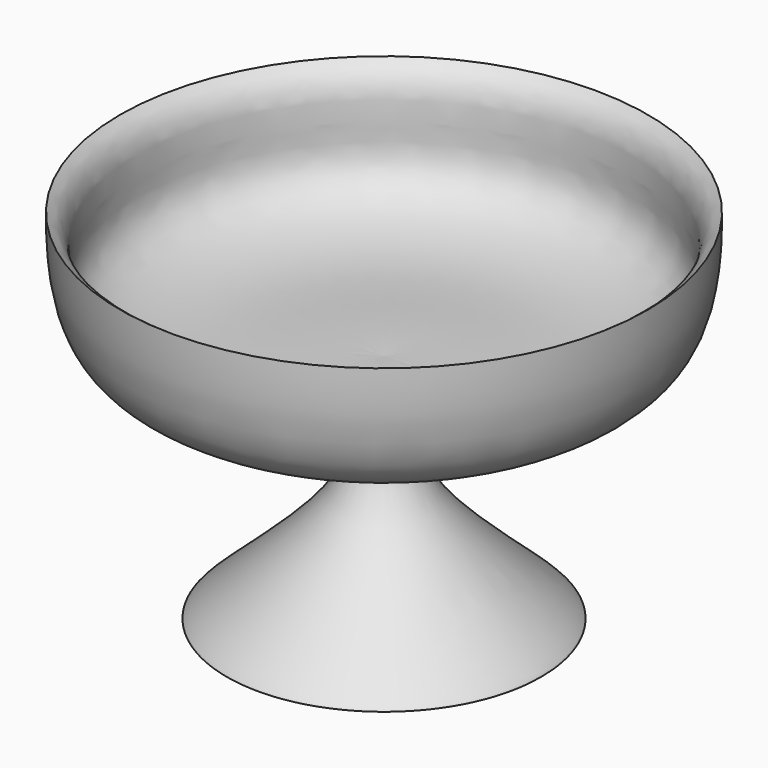
from build123d import *


with BuildPart() as f1:
    # F0 (on Front) → F1 (revolve)
    with BuildSketch(Plane.XZ):
        with BuildLine():
            add(Edge.make_bspline(
                [(22.9861736298, 31.116578728), (23.0673894908, 23.5634181635), (19.7945383747, 19.8678388545), (12.3284338392, 17.8246338561), (7.7785480068, 17.291790906), (1.7693040814, 15.5454232447), (3.2049410202, 8.6313990931), (14.8219974898, -0.4406309067), (12.4072414563, 0.2736511108), (6.1211072522, 0.1110565762), (0, 0)],
                knots=[0, 0, 0, 0, 0.1652378043, 0.287846624, 0.3939447527, 0.5001517763, 0.6185640724, 0.790346318, 0.8265195575, 1, 1, 1, 1], degree=3))
            add(Edge.make_bspline(
                [(0, 20.0920011848), (3.208722124, 20.2860824599), (8.5112462982, 20.0275364994), (14.5430847553, 19.8992182077), (19.9343236256, 21.5743068823), (21.7581619334, 24.3469579228), (21.1785288535, 28.2447655328), (21.8095341628, 30.3924935394), (22.9861736298, 31.116578728)],
                knots=[0, 0, 0, 0, 0.2233635997, 0.4103906713, 0.5850005466, 0.715005177, 0.8618650297, 1, 1, 1, 1], degree=3))
            Line((0, 20.0920011848), (0, 0))
        make_face()
    revolve(axis=Axis((0, 0, 13.1923293229), (0, 0, -1)))


solid = f1.part
